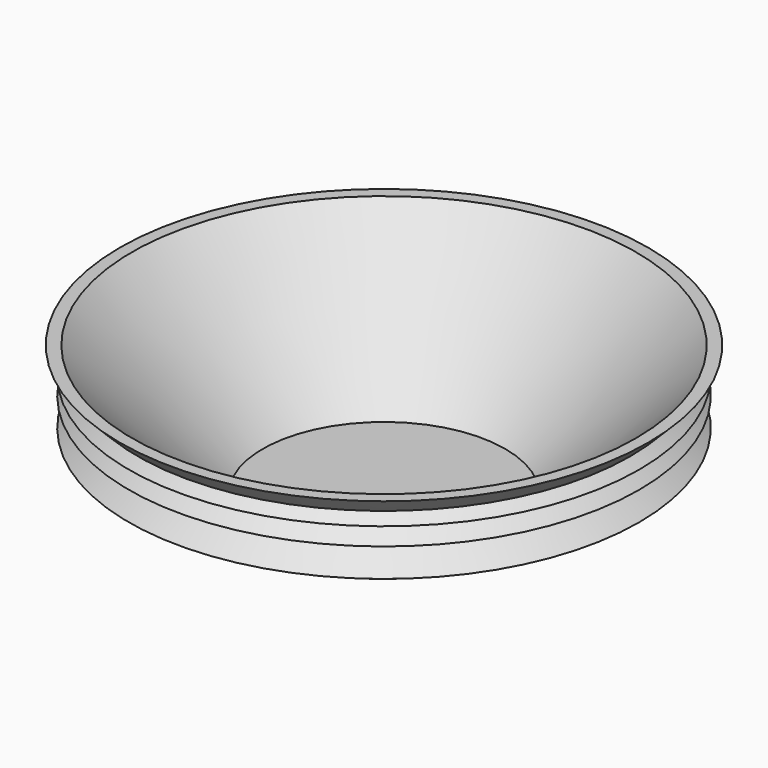
from build123d import *


with BuildPart() as f1:
    # F0 (on Front) → F1 (revolve)
    with BuildSketch(Plane.XZ):
        Polygon((0, 3), (0, 0), (30, 0), (47.2911696136, 17.2911696136), (54.3615766242, 24.3615766242), (58.7559693679, 28.7559693679), (60.9531657398, 30.9531657398), (65.3553390593, 35.3553390593), (62.3553390593, 35.3553390593), (30, 3), align=None)
        Polygon((54.3615766242, 24.3615766242), (47.2911696136, 17.2911696136), (63.1503621116, 17.2911696136), align=None)
        Polygon((58.7559693679, 28.7559693679), (54.3615766242, 24.3615766242), (63.1503621116, 24.3615766242), align=None)
        Polygon((60.9531657398, 30.9531657398), (58.7559693679, 28.7559693679), (63.1503621116, 28.7559693679), align=None)
    revolve(axis=Axis((0, 0, 17.6776695297), (0, 0, 1)))


solid = f1.part
